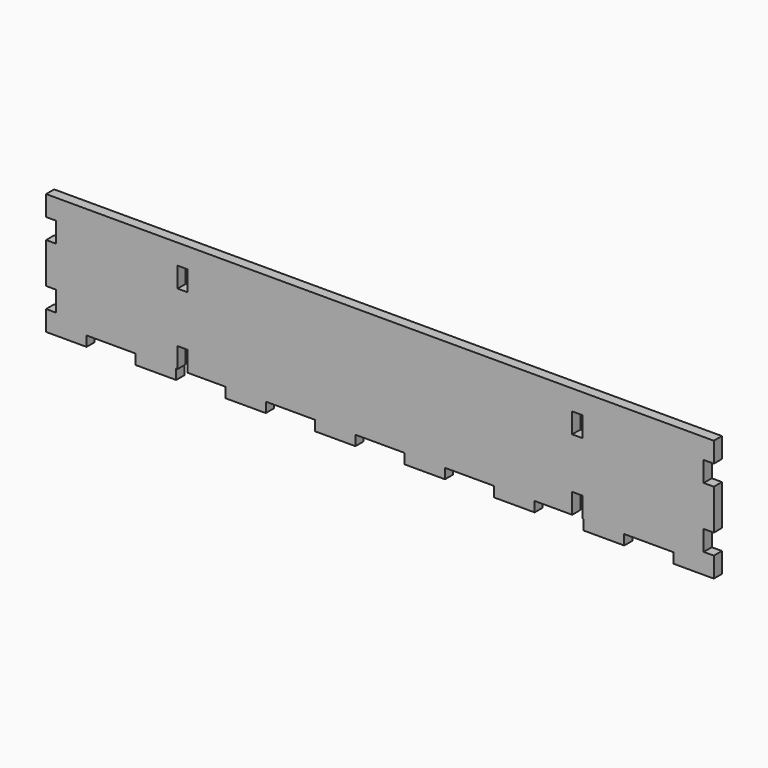
from build123d import *

# Parameters (mm, degrees)
F0_W     = 419.1
F0_H     = 76.2
F1_DEPTH = 6.35
F2_W     = 30.842857
F2_H     = 6.35
F2_W_2   = 30.842858
F2_W_3   = 6.35
F2_H_2   = 12.7
F3_DEPTH = 6.351
F4_W     = 6.35
F4_H     = 12.7
F5_DEPTH = 6.351


with BuildPart() as f1:
    # F0 (on Front) → F1 (new body)
    with BuildSketch(Plane.XZ):
        Rectangle(F0_W, F0_H)
    extrude(amount=F1_DEPTH)

    # F2 (on face) → F3 (cut, through all)
    with BuildSketch(Plane.XZ.offset(6.35)):
        with Locations((-168.728571, -34.925)):
            Rectangle(F2_W, F2_H)
        with Locations((-112.485715, -34.925)):
            Rectangle(F2_W, F2_H)
        with Locations((-56.242857, -34.925)):
            Rectangle(F2_W, F2_H)
        with Locations((0, -34.925)):
            Rectangle(F2_W_2, F2_H)
        with Locations((56.242857, -34.925)):
            Rectangle(F2_W, F2_H)
        with Locations((112.485715, -34.925)):
            Rectangle(F2_W, F2_H)
        with Locations((168.728571, -34.925)):
            Rectangle(F2_W, F2_H)
        with Locations((-206.375, -19.05)):
            Rectangle(F2_W_3, F2_H_2)
        with Locations((-206.375, 19.05)):
            Rectangle(F2_W_3, F2_H_2)
        with Locations((206.375, 19.05)):
            Rectangle(F2_W_3, F2_H_2)
        with Locations((206.375, -19.05)):
            Rectangle(F2_W_3, F2_H_2)
    extrude(amount=-F3_DEPTH, mode=Mode.SUBTRACT)

    # F4 (on face) → F5 (cut, through all)
    with BuildSketch(Plane.XZ.offset(6.35)):
        with Locations((-123.825, -25.4)):
            Rectangle(F4_W, F4_H)
        with Locations((-123.825, 19.05)):
            Rectangle(F4_W, F4_H)
        with Locations((123.825, 19.05)):
            Rectangle(F4_W, F4_H)
        with Locations((123.825, -25.4)):
            Rectangle(F4_W, F4_H)
    extrude(amount=-F5_DEPTH, mode=Mode.SUBTRACT)


solid = f1.part
